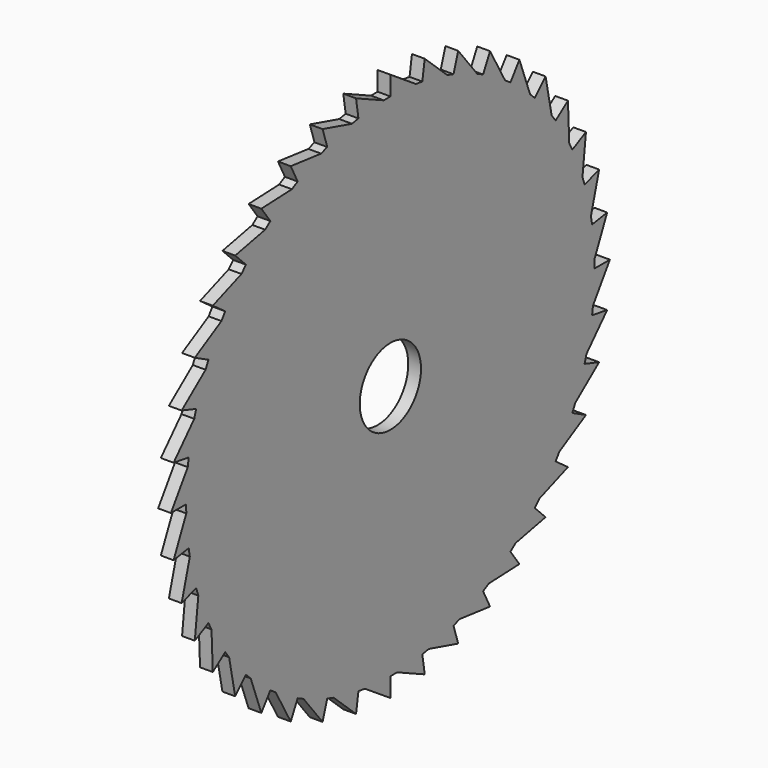
from build123d import *

# Parameters (mm, degrees)
F0_R     = 6
F1_DEPTH = 2


with BuildPart() as f1:
    # F0 (on Right) → F1 (new body)
    with BuildSketch(Plane.YZ):
        with BuildLine():
            ThreePointArc((39.6875, -4.990225), (39.921799, -2.5), (40, 0))
            ThreePointArc((40, 0), (39.994881, 0.639935), (39.979524, 1.279706))
            ThreePointArc((39.979524, 1.279706), (39.821381, 3.775924), (39.507534, 6.257379))
            ThreePointArc((39.507534, 6.257379), (39.402369, 6.888634), (39.28712, 7.518126))
            ThreePointArc((39.28712, 7.518126), (38.740429, 9.958873), (38.042261, 12.36068))
            ThreePointArc((38.042261, 12.36068), (37.839641, 12.967712), (37.627336, 13.571425))
            ThreePointArc((37.627336, 13.571425), (36.705559, 15.896601), (35.640261, 18.15962))
            ThreePointArc((35.640261, 18.15962), (35.345175, 18.727482), (35.041043, 19.290551))
            ThreePointArc((35.041043, 19.290551), (33.766877, 21.442902), (32.36068, 23.51141))
            ThreePointArc((32.36068, 23.51141), (31.980394, 24.026119), (31.591922, 24.534679))
            ThreePointArc((31.591922, 24.534679), (29.996741, 26.461208), (28.284271, 28.284271))
            ThreePointArc((28.284271, 28.284271), (27.828149, 28.733154), (27.364904, 29.174681))
            ThreePointArc((27.364904, 29.174681), (25.487987, 30.82795), (23.51141, 32.36068))
            ThreePointArc((23.51141, 32.36068), (22.990683, 32.732682), (22.464071, 33.096307))
            ThreePointArc((22.464071, 33.096307), (20.351634, 34.435607), (18.15962, 35.640261))
            ThreePointArc((18.15962, 35.640261), (17.58711, 35.926224), (17.010098, 36.202991))
            ThreePointArc((17.010098, 36.202991), (14.714155, 37.195344), (12.36068, 38.042261))
            ThreePointArc((12.36068, 38.042261), (11.750484, 38.235143), (11.13728, 38.418238))
            ThreePointArc((11.13728, 38.418238), (8.714366, 39.039209), (6.257379, 39.507534))
            ThreePointArc((6.257379, 39.507534), (5.624522, 39.602585), (4.990225, 39.6875))
            ThreePointArc((4.990225, 39.6875), (2.5, 39.921799), (0, 40))
            ThreePointArc((0, 40), (-0.639935, 39.994881), (-1.279706, 39.979524))
            ThreePointArc((-1.279706, 39.979524), (-3.775924, 39.821381), (-6.257379, 39.507534))
            ThreePointArc((-6.257379, 39.507534), (-6.888634, 39.402369), (-7.518126, 39.28712))
            ThreePointArc((-7.518126, 39.28712), (-9.958873, 38.740429), (-12.36068, 38.042261))
            ThreePointArc((-12.36068, 38.042261), (-12.967712, 37.839641), (-13.571425, 37.627336))
            ThreePointArc((-13.571425, 37.627336), (-15.896601, 36.705559), (-18.15962, 35.640261))
            ThreePointArc((-18.15962, 35.640261), (-18.727482, 35.345175), (-19.290551, 35.041043))
            ThreePointArc((-19.290551, 35.041043), (-21.442902, 33.766877), (-23.51141, 32.36068))
            ThreePointArc((-23.51141, 32.36068), (-24.026119, 31.980394), (-24.534679, 31.591922))
            ThreePointArc((-24.534679, 31.591922), (-26.461208, 29.996741), (-28.284271, 28.284271))
            ThreePointArc((-28.284271, 28.284271), (-28.733154, 27.828149), (-29.174681, 27.364904))
            ThreePointArc((-29.174681, 27.364904), (-30.82795, 25.487987), (-32.36068, 23.51141))
            ThreePointArc((-32.36068, 23.51141), (-32.732682, 22.990683), (-33.096307, 22.464071))
            ThreePointArc((-33.096307, 22.464071), (-34.435607, 20.351634), (-35.640261, 18.15962))
            ThreePointArc((-35.640261, 18.15962), (-35.926224, 17.58711), (-36.202991, 17.010098))
            ThreePointArc((-36.202991, 17.010098), (-37.195344, 14.714155), (-38.042261, 12.36068))
            ThreePointArc((-38.042261, 12.36068), (-38.235143, 11.750484), (-38.418238, 11.13728))
            ThreePointArc((-38.418238, 11.13728), (-39.039209, 8.714366), (-39.507534, 6.257379))
            ThreePointArc((-39.507534, 6.257379), (-39.602585, 5.624522), (-39.6875, 4.990225))
            ThreePointArc((-39.6875, 4.990225), (-39.921799, 2.5), (-40, 0))
            ThreePointArc((-40, 0), (-39.994881, -0.639935), (-39.979524, -1.279706))
            ThreePointArc((-39.979524, -1.279706), (-39.821381, -3.775924), (-39.507534, -6.257379))
            ThreePointArc((-39.507534, -6.257379), (-39.402369, -6.888634), (-39.28712, -7.518126))
            ThreePointArc((-39.28712, -7.518126), (-38.740429, -9.958873), (-38.042261, -12.36068))
            ThreePointArc((-38.042261, -12.36068), (-37.839641, -12.967712), (-37.627336, -13.571425))
            ThreePointArc((-37.627336, -13.571425), (-36.705559, -15.896601), (-35.640261, -18.15962))
            ThreePointArc((-35.640261, -18.15962), (-35.345175, -18.727482), (-35.041043, -19.290551))
            ThreePointArc((-35.041043, -19.290551), (-33.766877, -21.442902), (-32.36068, -23.51141))
            ThreePointArc((-32.36068, -23.51141), (-31.980394, -24.026119), (-31.591922, -24.534679))
            ThreePointArc((-31.591922, -24.534679), (-29.996741, -26.461208), (-28.284271, -28.284271))
            ThreePointArc((-28.284271, -28.284271), (-27.828149, -28.733154), (-27.364904, -29.174681))
            ThreePointArc((-27.364904, -29.174681), (-25.487987, -30.82795), (-23.51141, -32.36068))
            ThreePointArc((-23.51141, -32.36068), (-22.990683, -32.732682), (-22.464071, -33.096307))
            ThreePointArc((-22.464071, -33.096307), (-20.351634, -34.435607), (-18.15962, -35.640261))
            ThreePointArc((-18.15962, -35.640261), (-17.58711, -35.926224), (-17.010098, -36.202991))
            ThreePointArc((-17.010098, -36.202991), (-14.714155, -37.195344), (-12.36068, -38.042261))
            ThreePointArc((-12.36068, -38.042261), (-11.750484, -38.235143), (-11.13728, -38.418238))
            ThreePointArc((-11.13728, -38.418238), (-8.714366, -39.039209), (-6.257379, -39.507534))
            ThreePointArc((-6.257379, -39.507534), (-5.624522, -39.602585), (-4.990225, -39.6875))
            ThreePointArc((-4.990225, -39.6875), (-2.5, -39.921799), (0, -40))
            ThreePointArc((0, -40), (0.639935, -39.994881), (1.279706, -39.979524))
            ThreePointArc((1.279706, -39.979524), (3.775924, -39.821381), (6.257379, -39.507534))
            ThreePointArc((6.257379, -39.507534), (6.888634, -39.402369), (7.518126, -39.28712))
            ThreePointArc((7.518126, -39.28712), (9.958873, -38.740429), (12.36068, -38.042261))
            ThreePointArc((12.36068, -38.042261), (12.967712, -37.839641), (13.571425, -37.627336))
            ThreePointArc((13.571425, -37.627336), (15.896601, -36.705559), (18.15962, -35.640261))
            ThreePointArc((18.15962, -35.640261), (18.727482, -35.345175), (19.290551, -35.041043))
            ThreePointArc((19.290551, -35.041043), (21.442902, -33.766877), (23.51141, -32.36068))
            ThreePointArc((23.51141, -32.36068), (24.026119, -31.980394), (24.534679, -31.591922))
            ThreePointArc((24.534679, -31.591922), (26.461208, -29.996741), (28.284271, -28.284271))
            ThreePointArc((28.284271, -28.284271), (28.733154, -27.828149), (29.174681, -27.364904))
            ThreePointArc((29.174681, -27.364904), (30.82795, -25.487987), (32.36068, -23.51141))
            ThreePointArc((32.36068, -23.51141), (32.732682, -22.990683), (33.096307, -22.464071))
            ThreePointArc((33.096307, -22.464071), (34.435607, -20.351634), (35.640261, -18.15962))
            ThreePointArc((35.640261, -18.15962), (35.926224, -17.58711), (36.202991, -17.010098))
            ThreePointArc((36.202991, -17.010098), (37.195344, -14.714155), (38.042261, -12.36068))
            ThreePointArc((38.042261, -12.36068), (38.235143, -11.750484), (38.418238, -11.13728))
            ThreePointArc((38.418238, -11.13728), (39.039209, -8.714366), (39.507534, -6.257379))
            ThreePointArc((39.507534, -6.257379), (39.602585, -5.624522), (39.6875, -4.990225))
        make_face()
        Circle(F0_R, mode=Mode.SUBTRACT)
        with BuildLine():
            Line((-19.521591, -38.313281), (-18.15962, -35.640261))
            ThreePointArc((-18.15962, -35.640261), (-20.351634, -34.435607), (-22.464071, -33.096307))
            Line((-22.464071, -33.096307), (-19.521591, -38.313281))
        make_face()
        with BuildLine():
            ThreePointArc((-40, 0), (-39.921799, 2.5), (-39.6875, 4.990225))
            Line((-39.6875, 4.990225), (-43, 0))
            Line((-43, 0), (-40, 0))
        make_face()
        with BuildLine():
            Line((34.787731, -25.274766), (32.36068, -23.51141))
            ThreePointArc((32.36068, -23.51141), (30.82795, -25.487987), (29.174681, -27.364904))
            Line((29.174681, -27.364904), (34.787731, -25.274766))
        make_face()
        with BuildLine():
            Line((-42.470599, -6.726682), (-39.507534, -6.257379))
            ThreePointArc((-39.507534, -6.257379), (-39.821381, -3.775924), (-39.979524, -1.279706))
            Line((-39.979524, -1.279706), (-42.470599, -6.726682))
        make_face()
        with BuildLine():
            Line((0, -43), (0, -40))
            ThreePointArc((0, -40), (-2.5, -39.921799), (-4.990225, -39.6875))
            Line((-4.990225, -39.6875), (0, -43))
        make_face()
        with BuildLine():
            Line((38.313281, -19.521591), (35.640261, -18.15962))
            ThreePointArc((35.640261, -18.15962), (34.435607, -20.351634), (33.096307, -22.464071))
            Line((33.096307, -22.464071), (38.313281, -19.521591))
        make_face()
        with BuildLine():
            Line((-13.287731, -40.89543), (-12.36068, -38.042261))
            ThreePointArc((-12.36068, -38.042261), (-14.714155, -37.195344), (-17.010098, -36.202991))
            Line((-17.010098, -36.202991), (-13.287731, -40.89543))
        make_face()
        with BuildLine():
            Line((-40.89543, -13.287731), (-38.042261, -12.36068))
            ThreePointArc((-38.042261, -12.36068), (-38.740429, -9.958873), (-39.28712, -7.518126))
            Line((-39.28712, -7.518126), (-40.89543, -13.287731))
        make_face()
        with BuildLine():
            Line((40.89543, -13.287731), (38.042261, -12.36068))
            ThreePointArc((38.042261, -12.36068), (37.195344, -14.714155), (36.202991, -17.010098))
            Line((36.202991, -17.010098), (40.89543, -13.287731))
        make_face()
        with BuildLine():
            Line((6.726682, -42.470599), (6.257379, -39.507534))
            ThreePointArc((6.257379, -39.507534), (3.775924, -39.821381), (1.279706, -39.979524))
            Line((1.279706, -39.979524), (6.726682, -42.470599))
        make_face()
        with BuildLine():
            Line((-6.726682, -42.470599), (-6.257379, -39.507534))
            ThreePointArc((-6.257379, -39.507534), (-8.714366, -39.039209), (-11.13728, -38.418238))
            Line((-11.13728, -38.418238), (-6.726682, -42.470599))
        make_face()
        with BuildLine():
            Line((42.470599, -6.726682), (39.507534, -6.257379))
            ThreePointArc((39.507534, -6.257379), (39.039209, -8.714366), (38.418238, -11.13728))
            Line((38.418238, -11.13728), (42.470599, -6.726682))
        make_face()
        with BuildLine():
            Line((-38.313281, -19.521591), (-35.640261, -18.15962))
            ThreePointArc((-35.640261, -18.15962), (-36.705559, -15.896601), (-37.627336, -13.571425))
            Line((-37.627336, -13.571425), (-38.313281, -19.521591))
        make_face()
        with BuildLine():
            ThreePointArc((-32.36068, 23.51141), (-30.82795, 25.487987), (-29.174681, 27.364904))
            Line((-29.174681, 27.364904), (-34.787731, 25.274766))
            Line((-34.787731, 25.274766), (-32.36068, 23.51141))
        make_face()
        with BuildLine():
            ThreePointArc((-23.51141, 32.36068), (-21.442902, 33.766877), (-19.290551, 35.041043))
            Line((-19.290551, 35.041043), (-25.274766, 34.787731))
            Line((-25.274766, 34.787731), (-23.51141, 32.36068))
        make_face()
        with BuildLine():
            ThreePointArc((-28.284271, 28.284271), (-26.461208, 29.996741), (-24.534679, 31.591922))
            Line((-24.534679, 31.591922), (-30.405592, 30.405592))
            Line((-30.405592, 30.405592), (-28.284271, 28.284271))
        make_face()
        with BuildLine():
            ThreePointArc((-35.640261, 18.15962), (-34.435607, 20.351634), (-33.096307, 22.464071))
            Line((-33.096307, 22.464071), (-38.313281, 19.521591))
            Line((-38.313281, 19.521591), (-35.640261, 18.15962))
        make_face()
        with BuildLine():
            Line((19.521591, -38.313281), (18.15962, -35.640261))
            ThreePointArc((18.15962, -35.640261), (15.896601, -36.705559), (13.571425, -37.627336))
            Line((13.571425, -37.627336), (19.521591, -38.313281))
        make_face()
        with BuildLine():
            ThreePointArc((39.507534, 6.257379), (39.821381, 3.775924), (39.979524, 1.279706))
            Line((39.979524, 1.279706), (42.470599, 6.726682))
            Line((42.470599, 6.726682), (39.507534, 6.257379))
        make_face()
        with BuildLine():
            ThreePointArc((38.042261, 12.36068), (38.740429, 9.958873), (39.28712, 7.518126))
            Line((39.28712, 7.518126), (40.89543, 13.287731))
            Line((40.89543, 13.287731), (38.042261, 12.36068))
        make_face()
        with BuildLine():
            ThreePointArc((35.640261, 18.15962), (36.705559, 15.896601), (37.627336, 13.571425))
            Line((37.627336, 13.571425), (38.313281, 19.521591))
            Line((38.313281, 19.521591), (35.640261, 18.15962))
        make_face()
        with BuildLine():
            ThreePointArc((32.36068, 23.51141), (33.766877, 21.442902), (35.041043, 19.290551))
            Line((35.041043, 19.290551), (34.787731, 25.274766))
            Line((34.787731, 25.274766), (32.36068, 23.51141))
        make_face()
        with BuildLine():
            ThreePointArc((28.284271, 28.284271), (29.996741, 26.461208), (31.591922, 24.534679))
            Line((31.591922, 24.534679), (30.405592, 30.405592))
            Line((30.405592, 30.405592), (28.284271, 28.284271))
        make_face()
        with BuildLine():
            ThreePointArc((23.51141, 32.36068), (25.487987, 30.82795), (27.364904, 29.174681))
            Line((27.364904, 29.174681), (25.274766, 34.787731))
            Line((25.274766, 34.787731), (23.51141, 32.36068))
        make_face()
        with BuildLine():
            ThreePointArc((18.15962, 35.640261), (20.351634, 34.435607), (22.464071, 33.096307))
            Line((22.464071, 33.096307), (19.521591, 38.313281))
            Line((19.521591, 38.313281), (18.15962, 35.640261))
        make_face()
        with BuildLine():
            ThreePointArc((12.36068, 38.042261), (14.714155, 37.195344), (17.010098, 36.202991))
            Line((17.010098, 36.202991), (13.287731, 40.89543))
            Line((13.287731, 40.89543), (12.36068, 38.042261))
        make_face()
        with BuildLine():
            ThreePointArc((6.257379, 39.507534), (8.714366, 39.039209), (11.13728, 38.418238))
            Line((11.13728, 38.418238), (6.726682, 42.470599))
            Line((6.726682, 42.470599), (6.257379, 39.507534))
        make_face()
        with BuildLine():
            ThreePointArc((0, 40), (2.5, 39.921799), (4.990225, 39.6875))
            Line((4.990225, 39.6875), (0, 43))
            Line((0, 43), (0, 40))
        make_face()
        with BuildLine():
            ThreePointArc((-6.257379, 39.507534), (-3.775924, 39.821381), (-1.279706, 39.979524))
            Line((-1.279706, 39.979524), (-6.726682, 42.470599))
            Line((-6.726682, 42.470599), (-6.257379, 39.507534))
        make_face()
        with BuildLine():
            ThreePointArc((-12.36068, 38.042261), (-9.958873, 38.740429), (-7.518126, 39.28712))
            Line((-7.518126, 39.28712), (-13.287731, 40.89543))
            Line((-13.287731, 40.89543), (-12.36068, 38.042261))
        make_face()
        with BuildLine():
            ThreePointArc((-18.15962, 35.640261), (-15.896601, 36.705559), (-13.571425, 37.627336))
            Line((-13.571425, 37.627336), (-19.521591, 38.313281))
            Line((-19.521591, 38.313281), (-18.15962, 35.640261))
        make_face()
        with BuildLine():
            Line((43, 0), (40, 0))
            ThreePointArc((40, 0), (39.921799, -2.5), (39.6875, -4.990225))
            Line((39.6875, -4.990225), (43, 0))
        make_face()
        with BuildLine():
            Line((-34.787731, -25.274766), (-32.36068, -23.51141))
            ThreePointArc((-32.36068, -23.51141), (-33.766877, -21.442902), (-35.041043, -19.290551))
            Line((-35.041043, -19.290551), (-34.787731, -25.274766))
        make_face()
        with BuildLine():
            ThreePointArc((-38.042261, 12.36068), (-37.195344, 14.714155), (-36.202991, 17.010098))
            Line((-36.202991, 17.010098), (-40.89543, 13.287731))
            Line((-40.89543, 13.287731), (-38.042261, 12.36068))
        make_face()
        with BuildLine():
            Line((25.274766, -34.787731), (23.51141, -32.36068))
            ThreePointArc((23.51141, -32.36068), (21.442902, -33.766877), (19.290551, -35.041043))
            Line((19.290551, -35.041043), (25.274766, -34.787731))
        make_face()
        with BuildLine():
            Line((-30.405592, -30.405592), (-28.284271, -28.284271))
            ThreePointArc((-28.284271, -28.284271), (-29.996741, -26.461208), (-31.591922, -24.534679))
            Line((-31.591922, -24.534679), (-30.405592, -30.405592))
        make_face()
        with BuildLine():
            ThreePointArc((-39.507534, 6.257379), (-39.039209, 8.714366), (-38.418238, 11.13728))
            Line((-38.418238, 11.13728), (-42.470599, 6.726682))
            Line((-42.470599, 6.726682), (-39.507534, 6.257379))
        make_face()
        with BuildLine():
            Line((30.405592, -30.405592), (28.284271, -28.284271))
            ThreePointArc((28.284271, -28.284271), (26.461208, -29.996741), (24.534679, -31.591922))
            Line((24.534679, -31.591922), (30.405592, -30.405592))
        make_face()
        with BuildLine():
            Line((13.287731, -40.89543), (12.36068, -38.042261))
            ThreePointArc((12.36068, -38.042261), (9.958873, -38.740429), (7.518126, -39.28712))
            Line((7.518126, -39.28712), (13.287731, -40.89543))
        make_face()
        with BuildLine():
            Line((-25.274766, -34.787731), (-23.51141, -32.36068))
            ThreePointArc((-23.51141, -32.36068), (-25.487987, -30.82795), (-27.364904, -29.174681))
            Line((-27.364904, -29.174681), (-25.274766, -34.787731))
        make_face()
    extrude(amount=F1_DEPTH)


solid = f1.part
